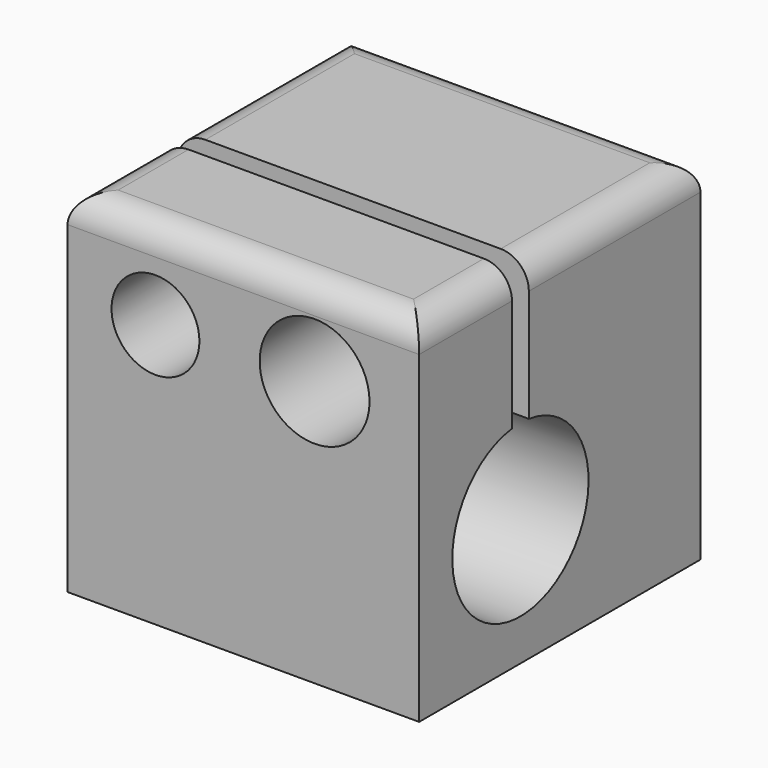
from build123d import *

# Parameters (mm, degrees)
F1_DEPTH = 25.4
F2_R     = 3.175
F2_R_2   = 3.96875
F3_DEPTH = 25.401
F4_R     = 2.032


with BuildPart() as f1:
    # F0 (on Right) → F1 (new body)
    with BuildSketch(Plane.YZ):
        with BuildLine():
            Line((12.7, -12.7), (12.7, 12.7))
            Line((12.7, 12.7), (-2.794, 12.7))
            Line((-2.794, 12.7), (-2.794, 2.548185))
            ThreePointArc((-2.794, 2.548185), (-3.556, -9.707563), (-4.318, 2.548185))
            Line((-4.318, 2.548185), (-4.318, 12.7))
            Line((-4.318, 12.7), (-12.7, 12.7))
            Line((-12.7, 12.7), (-12.7, -12.7))
            Line((-12.7, -12.7), (12.7, -12.7))
        make_face()
    extrude(amount=F1_DEPTH)

    # F2 (on face) → F3 (cut, through all)
    with BuildSketch(Plane.XZ.offset(12.7)):
        with Locations((6.35, 6.35)):
            Circle(F2_R)
        with Locations((17.846059, 6.5024)):
            Circle(F2_R_2)
    extrude(amount=-F3_DEPTH, mode=Mode.SUBTRACT)

    # F4
    f4_edges = [f1.edges().sort_by_distance(p)[0] for p in [
        (0, 4.953, 12.7),
        (12.7, 12.7, 12.7),
        (25.4, 4.953, 12.7),
        (25.4, -8.509, 12.7),
        (12.7, -12.7, 12.7),
        (0, -8.509, 12.7),
    ]]
    fillet(f4_edges, radius=F4_R)


solid = f1.part
